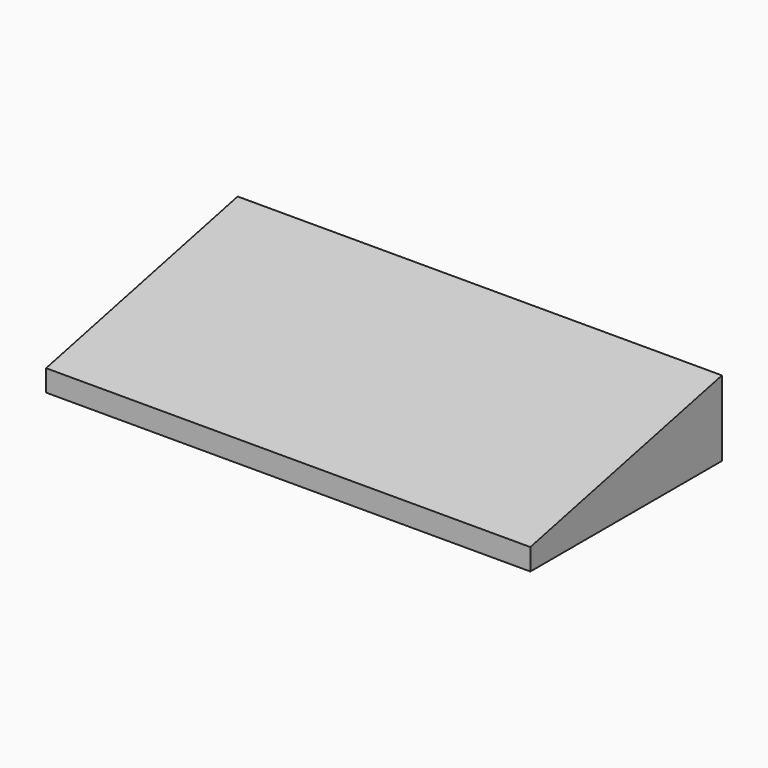
from build123d import *

# Parameters (mm, degrees)
F0_W     = 1143
F0_H     = 565.15
F1_DEPTH = 228.6
F3_DEPTH = 1358.16443


with BuildPart() as f1:
    # F0 (on Top) → F1 (new body)
    with BuildSketch(Plane.XY):
        Rectangle(F0_W, F0_H)
    extrude(amount=F1_DEPTH)

    # F2 (on face) → F3 (cut)
    with BuildSketch(Plane(origin=(-571.5, 0, 0), x_dir=(0, -1, 0), z_dir=(-1, 0, 0))):
        Polygon((-282.575, 228.6), (-282.575, 177.8), (282.575, 50.8), (282.575, 228.6), align=None)
    extrude(amount=-F3_DEPTH, mode=Mode.SUBTRACT)


solid = f1.part
